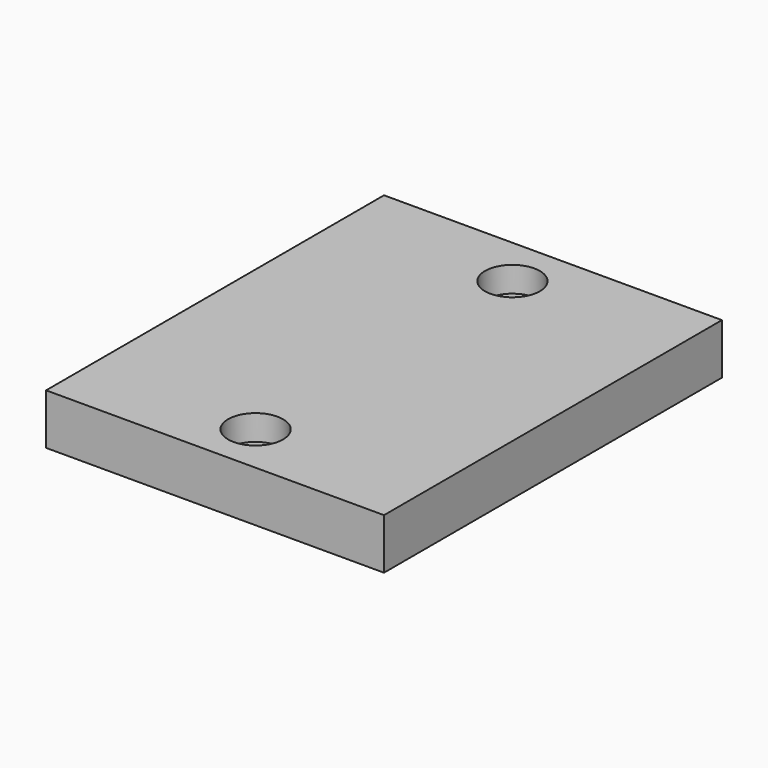
from build123d import *

# Parameters (mm, degrees)
F1_W           = 40
F1_H           = 50
F2_DEPTH       = 6
F3_D           = 3.3
F3_CBORE_D     = 6.5
F3_CBORE_DEPTH = 3


with BuildPart() as f2:
    # F1 (on Top) → F2 (new body)
    with BuildSketch(Plane.XY):
        Rectangle(F1_W, F1_H)
    extrude(amount=-F2_DEPTH)

    # F3 (through all)
    with Locations(Plane.XY):
        with Locations((0, -19), (0, 19)):
            CounterBoreHole(F3_D / 2, F3_CBORE_D / 2, F3_CBORE_DEPTH)


solid = f2.part
